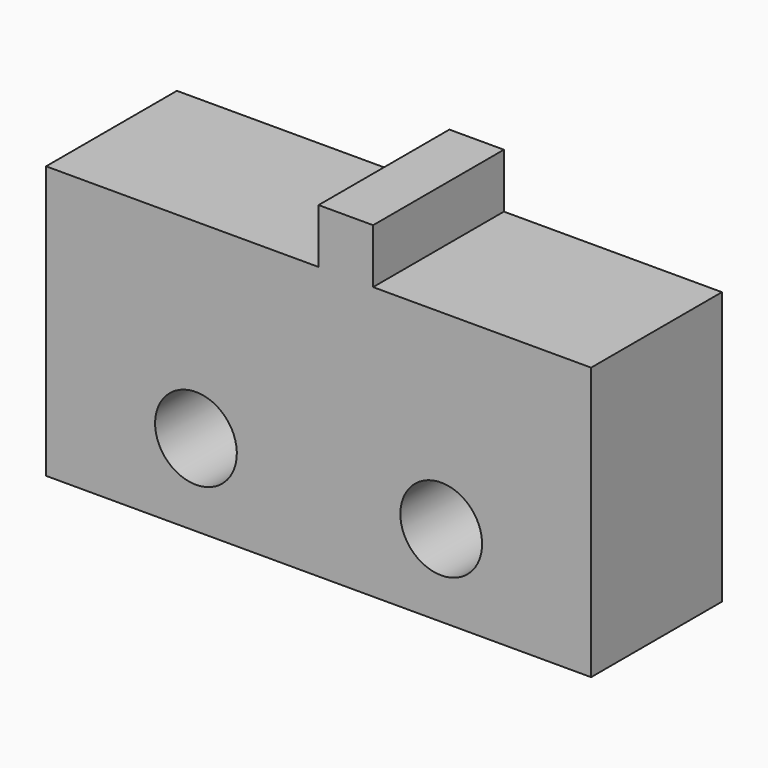
from build123d import *

# Parameters (mm, degrees)
CYLINDER033_R        = 1.5
CYLINDER033_DEPTH    = 10
ARRAY001016_Y_COUNT  = 2
ARRAY001016_Y_PITCH  = 9
BOX016_W             = 6
BOX016_H             = 20
BOX016_DEPTH         = 10
BOX017_W             = 6
BOX017_H             = 2
BOX017_DEPTH         = 2
BODY_PLACEMENT_ANGLE = 90


with BuildPart() as end_stop_hole_array:
    # Cylinder033 → Cylinder033 (new body)
    with BuildSketch(Plane(origin=(-2, 5.5, 3), x_dir=(0, 0, -1), z_dir=(1, 0, 0))):
        Circle(CYLINDER033_R)
    extrude(amount=CYLINDER033_DEPTH)

    # Array001016 Y: end stop hole array ×2


with BuildPart() as end_stop_hole_array_1:
    add(end_stop_hole_array.part)
    with Locations(*[(0, i * ARRAY001016_Y_PITCH, 0) for i in range(1, ARRAY001016_Y_COUNT)]):
        add(end_stop_hole_array.part)


with BuildPart() as end_stop_body_cube:
    # Box016 → Box016 (new body)
    with BuildSketch(Plane.XY):
        with Locations((3, 10)):
            Rectangle(BOX016_W, BOX016_H)
    extrude(amount=BOX016_DEPTH)


with BuildPart() as end_stop_clone:
    # Box017 → Box017 (new body)
    with BuildSketch(Plane(origin=(0, 8, 10), x_dir=(1, 0, 0), z_dir=(0, 0, 1))):
        with Locations((3, 1)):
            Rectangle(BOX017_W, BOX017_H)
    extrude(amount=BOX017_DEPTH)

    # Fusion013: union end stop body cube
    add(end_stop_body_cube.part)

    # Cut013: cut end stop hole array
    add(end_stop_hole_array_1.part, mode=Mode.SUBTRACT)


with BuildPart() as end_stop_clone_1:
    # Body placement: moved
    add(end_stop_clone.part.moved(Location((111, -6, 10))).rotate(Axis((111, -6, 10), (0, 0, 1)), BODY_PLACEMENT_ANGLE))


solid = end_stop_clone_1.part
